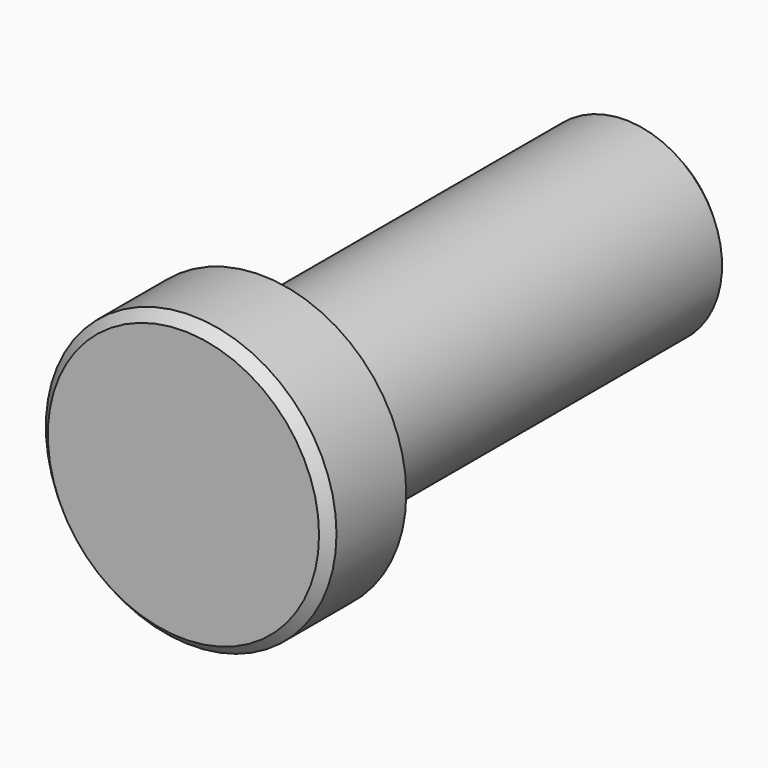
from build123d import *

# Parameters (mm, degrees)
F0_R     = 15
F1_DEPTH = 10
F2_R     = 10
F3_DEPTH = 48
F4_SIZE  = 1


with BuildPart() as f1:
    # F0 (on Front) → F1 (new body)
    with BuildSketch(Plane.XZ):
        Circle(F0_R)
    extrude(amount=-F1_DEPTH)

    # F2 (on face) → F3 (join)
    with BuildSketch(Plane(origin=(0, 10, 0), x_dir=(-1, 0, 0), z_dir=(0, 1, 0))):
        Circle(F2_R)
    extrude(amount=F3_DEPTH)

    # F4
    f4_edges = [f1.edges().sort_by_distance(p)[0] for p in [
        (10, 58, 0),
        (-15, 0, 0),
    ]]
    chamfer(f4_edges, length=F4_SIZE)


solid = f1.part
